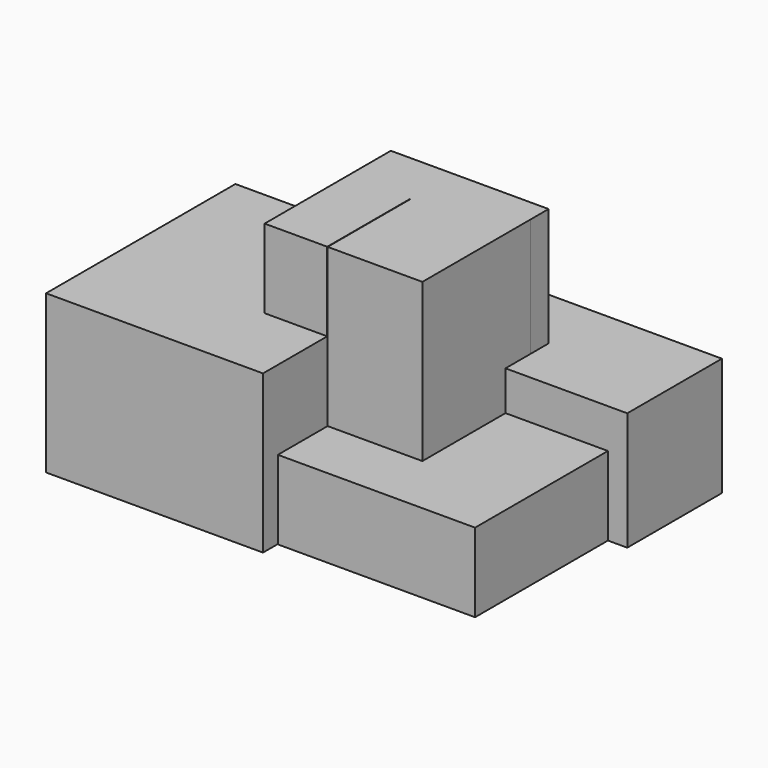
from build123d import *

# Parameters (mm, degrees)
F0_W     = 20.1616674036
F0_H     = 16.8965275351
F0_W_2   = 30.5136305556
F0_H_2   = 10.0199187398
F0_H_3   = 33.4494321883
F1_DEPTH = 76.2
F0_W_3   = 36.9883325964
F2_DEPTH = 50.8
F0_W_4   = 32.9863694444
F3_DEPTH = 38.1
F4_DEPTH = 25.4


with BuildPart() as f1:
    # F0 (on Top) → F1 (new body)
    with BuildSketch(Plane.XY):
        with Locations((-25.5707731128, 16.4976959558)):
            Rectangle(F0_W, F0_H)
        Polygon((-35.6516068146, 25.4), (-35.6516068146, 24.9459597234), (-15.489939411, 24.9459597234), (-15.489939411, 8.0494321883), (-15.3652373701, 8.0494321883), (-15.3652373701, 18.0693509281), (15.1483931854, 18.0693509281), (15.1483931854, 25.4), align=None)
        with Locations((-0.1084220923, 13.0593915582)):
            Rectangle(F0_W_2, F0_H_2)
        with Locations((-0.1084220923, -8.6752839059)):
            Rectangle(F0_W_2, F0_H_3)
        with Locations((-25.5707731128, -8.6752839059)):
            Rectangle(F0_W, F0_H_3)
    extrude(amount=F1_DEPTH)

    # F0 (on Top) → F2 (join)
    with BuildSketch(Plane.XY):
        Polygon((-72.639939411, 24.9459597234), (-85.339939411, 24.9459597234), (-85.339939411, -51.2540402766), (-15.489939411, -51.2540402766), (-15.489939411, -25.4), (-35.6516068146, -25.4), (-35.6516068146, 8.0494321883), (-72.639939411, 8.0494321883), align=None)
        with Locations((-54.1457731128, 16.4976959558)):
            Rectangle(F0_W_3, F0_H)
    extrude(amount=F2_DEPTH)

    # F0 (on Top) → F3 (join)
    with BuildSketch(Plane.XY):
        Polygon((-72.639939411, 46.1494321883), (-72.639939411, 24.9459597234), (-35.6516068146, 24.9459597234), (-35.6516068146, 25.4), (15.1483931854, 25.4), (15.1483931854, 18.0693509281), (48.1347626299, 18.0693509281), (48.1347626299, 8.0494321883), (54.360060589, 8.0494321883), (54.360060589, 46.1494321883), align=None)
        with Locations((31.6415779077, 13.0593915582)):
            Rectangle(F0_W_4, F0_H_2)
    extrude(amount=F3_DEPTH)

    # F0 (on Top) → F4 (join)
    with BuildSketch(Plane.XY):
        Polygon((15.1483931854, -25.4), (-15.3652373701, -25.4), (-15.3652373701, -45.4306490719), (48.1347626299, -45.4306490719), (48.1347626299, 8.0494321883), (15.1483931854, 8.0494321883), align=None)
    extrude(amount=F4_DEPTH)


solid = f1.part
